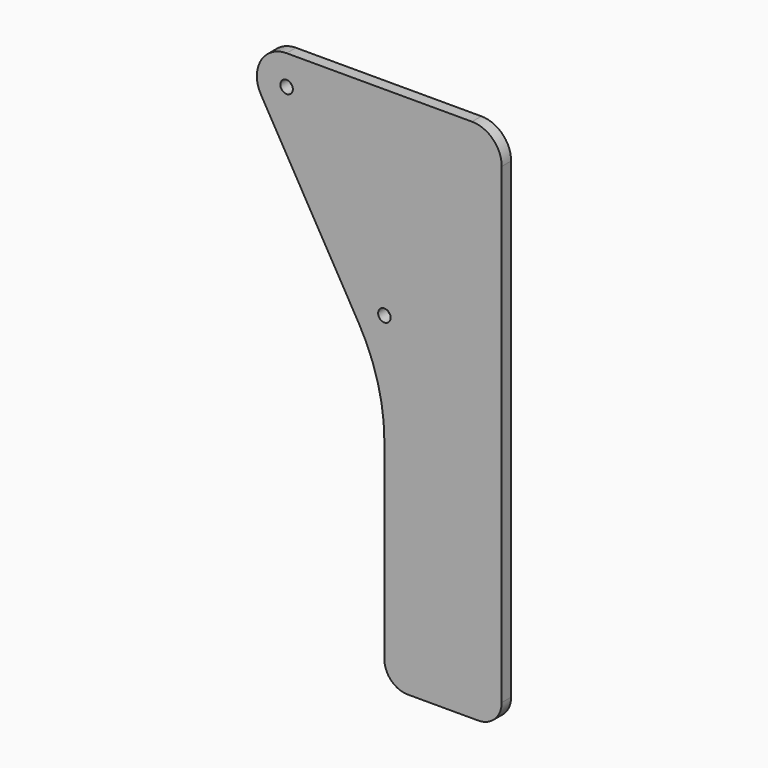
from build123d import *

# Parameters (mm, degrees)
F0_R     = 1.6
F1_DEPTH = 3


with BuildPart() as f1:
    # F0 (on Front) → F1 (new body)
    with BuildSketch(Plane.XZ):
        with BuildLine():
            Line((47.4, 7.6), (0, 7.6))
            ThreePointArc((0, 7.6), (-6.581793, 3.8), (-6.581793, -3.8))
            Line((-6.581793, -3.8), (18.418207, -47.10127))
            ThreePointArc((18.418207, -47.10127), (23.326032, -58.949809), (25, -71.664856))
            Line((25, -71.664856), (25, -120.664856))
            ThreePointArc((25, -120.664856), (26.757359, -124.907497), (31, -126.664856))
            Line((31, -126.664856), (49, -126.664856))
            ThreePointArc((49, -126.664856), (53.242641, -124.907497), (55, -120.664856))
            Line((55, -120.664856), (55, 0))
            ThreePointArc((55, 0), (52.774012, 5.374012), (47.4, 7.6))
        make_face()
        Circle(F0_R, mode=Mode.SUBTRACT)
        with Locations((25, -43.30127)):
            Circle(F0_R, mode=Mode.SUBTRACT)
    extrude(amount=F1_DEPTH)


solid = f1.part
